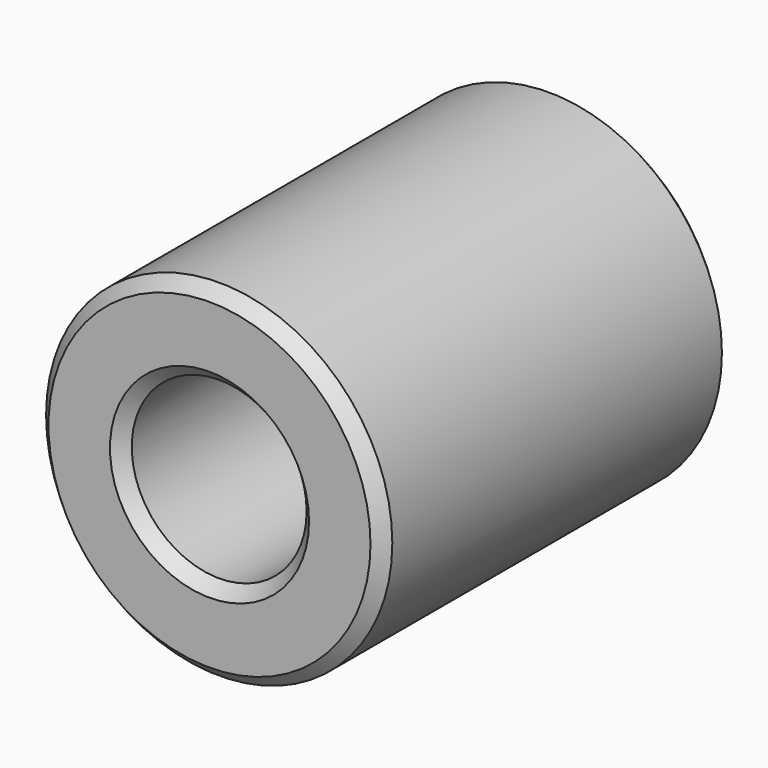
from build123d import *

# Parameters (mm, degrees)
F0_R     = 20
F0_R_2   = 10.1
F1_DEPTH = 25
F2_SIZE2 = 1.4
F2_SIZE  = 1.4
F3_SIZE2 = 1
F3_SIZE  = 1


with BuildPart() as f1:
    # F0 (on Front) → F1 (new body, symmetric)
    with BuildSketch(Plane.XZ):
        Circle(F0_R)
        Circle(F0_R_2, mode=Mode.SUBTRACT)
    extrude(amount=F1_DEPTH, both=True)

    # F2
    f2_edges = [f1.edges().sort_by_distance(p)[0] for p in [
        (-20, -25, 0),
        (-10.1, -25, 0),
    ]]
    chamfer(f2_edges, length=F2_SIZE, length2=F2_SIZE2)

    # F3
    f3_edges = [f1.edges().sort_by_distance(p)[0] for p in [
        (-10.1, 25, 0),
        (-20, 25, 0),
    ]]
    chamfer(f3_edges, length=F3_SIZE, length2=F3_SIZE2)


solid = f1.part
